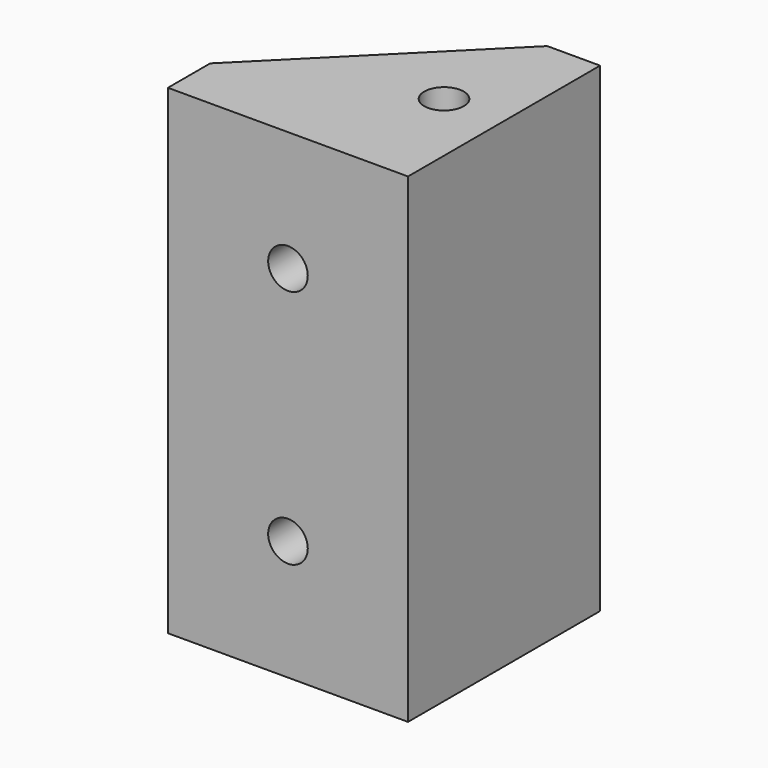
from build123d import *

# Parameters (mm, degrees)
PAD_DEPTH      = 40
SKETCH001_R    = 1.65
HOLE_DEPTH     = 8
HOLE_TIPS_R    = 1.65
SKETCH002_R    = 1.65
HOLE001_DEPTH  = 8
HOLE001_TIPS_R = 1.65


with BuildPart() as part:
    # Sketch → Pad (new body)
    with BuildSketch(Plane.XY):
        Polygon((-85, 0), (-65, 0), (-65, 20), (-69.4, 20), (-85, 4.4), align=None)
    extrude(amount=PAD_DEPTH)

    # Sketch001 (on Face1 of Pad) → Hole (cut)
    with BuildSketch(Plane.XZ):
        with Locations((-75, 30)):
            Circle(SKETCH001_R)
        with Locations((-75, 10)):
            Circle(SKETCH001_R)
    extrude(amount=-HOLE_DEPTH, mode=Mode.SUBTRACT)

    # Hole tips → Hole tip 1 section 0
    with BuildSketch(Plane.XZ.offset(-8), mode=Mode.PRIVATE) as hole_tip_1_s0:
        with Locations((-75, 30)):
            Circle(HOLE_TIPS_R)
    loft([hole_tip_1_s0.sketch, Vertex(-75, 8.99142, 30)], mode=Mode.SUBTRACT)

    # Hole tips → Hole tip 2 section 0
    with BuildSketch(Plane.XZ.offset(-8), mode=Mode.PRIVATE) as hole_tip_2_s0:
        with Locations((-75, 10)):
            Circle(HOLE_TIPS_R)
    loft([hole_tip_2_s0.sketch, Vertex(-75, 8.99142, 10)], mode=Mode.SUBTRACT)

    # Sketch002 (on Face4 of Hole) → Hole001 (cut)
    with BuildSketch(Plane.XY.offset(40)):
        with Locations((-70, 10)):
            Circle(SKETCH002_R)
    extrude(amount=-HOLE001_DEPTH, mode=Mode.SUBTRACT)

    # Hole001 tips → Hole001 tip 1 section 0
    with BuildSketch(Plane.XY.offset(32), mode=Mode.PRIVATE) as hole001_tip_1_s0:
        with Locations((-70, 10)):
            Circle(HOLE001_TIPS_R)
    loft([hole001_tip_1_s0.sketch, Vertex(-70, 10, 31.00858)], mode=Mode.SUBTRACT)


solid = part.part
